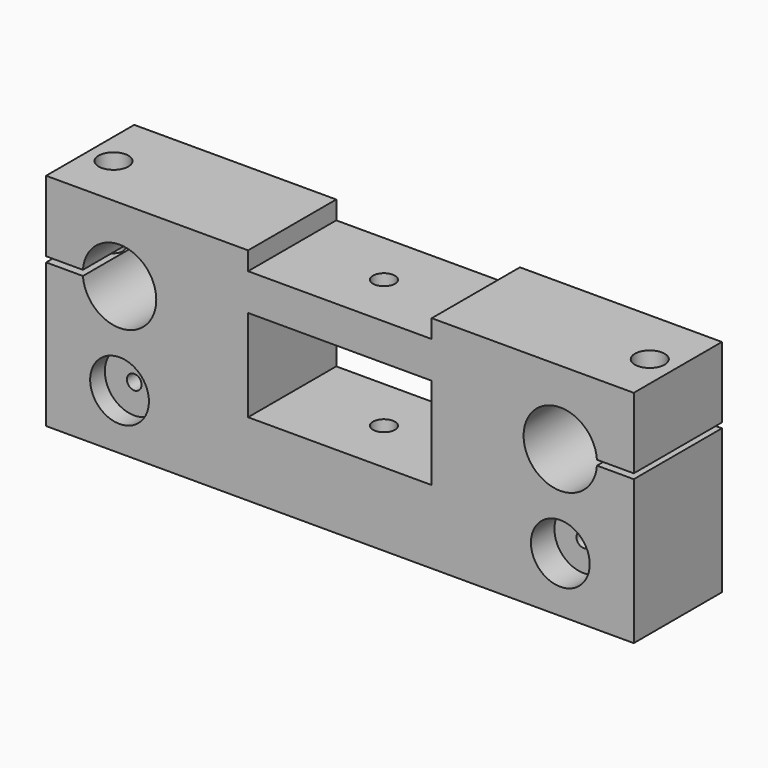
from build123d import *

# Parameters (mm, degrees)
F0_R      = 8
F0_W      = 50
F0_H      = 25
F1_DEPTH  = 30
F0_R_2    = 2
F2_R      = 2.55
F3_DEPTH  = 60
F5_DEPTH  = 30
F6_R      = 4.8374407279
F6_R_2    = 4.05
F7_DEPTH  = 8
F4_R      = 3.025
F8_DEPTH  = 55
F9_DEPTH  = 22
F10_DEPTH = 4
F11_DEPTH = 3
F12_DEPTH = 3
F13_DEPTH = 3
F14_DEPTH = 25
F15_DEPTH = 5
F16_DEPTH = 14.25
F17_DEPTH = 6.25
F19_R     = 3
F20_DEPTH = 50
F22_R     = 4.05
F23_DEPTH = 8


with BuildPart() as f1:
    # F0 (on Front) → F1 (new body)
    with BuildSketch(Plane.XZ):
        with BuildLine():
            Line((-20, 39.2304982366), (-20, 0))
            Line((-20, 0), (140, 0))
            Line((140, 0), (140, 39.3))
            Line((140, 39.3), (129.9754699137, 39.3))
            ThreePointArc((129.9754699137, 39.3), (110, 40), (129.9754699137, 40.7))
            Line((129.9754699137, 40.7), (140, 40.7))
            Line((140, 40.7), (140, 60))
            Line((140, 60), (85, 60))
            Line((85, 60), (85, 55))
            Line((85, 55), (35, 55))
            Line((35, 55), (35, 60))
            Line((35, 60), (-20, 60))
            Line((-20, 60), (-20, 40.7))
            Line((-20, 40.7), (-9.9754699137, 40.7))
            ThreePointArc((-9.9754699137, 40.7), (9.9999392909, 40.0348450672), (-9.9703493939, 39.2304982366))
            Line((-9.9703493939, 39.2304982366), (-20, 39.2304982366))
        make_face()
        with Locations((0, 15)):
            Circle(F0_R, mode=Mode.SUBTRACT)
        with Locations((120, 15)):
            Circle(F0_R, mode=Mode.SUBTRACT)
        with Locations((60, 32.5)):
            Rectangle(F0_W, F0_H, mode=Mode.SUBTRACT)
    extrude(amount=F1_DEPTH)

    # F2 (on Top) → F3 (cut)
    with BuildSketch(Plane.XY):
        with Locations((-13, -15.8086940646)):
            Circle(F2_R)
        with Locations((133, -15.8086940646)):
            Circle(F2_R)
    extrude(amount=F3_DEPTH, mode=Mode.SUBTRACT)

    # F2 (on Top) → F5 (cut)
    with BuildSketch(Plane.XY):
        Polygon((-16.8588337506, -13.5924129261), (-16.8487726432, -18.0424015523), (-12.9899388926, -20.2586826909), (-9.1411662494, -18.0249752032), (-9.1512273568, -13.5749865769), (-13.0100611074, -11.3587054383), align=None)
        with Locations((-13, -15.8086940646)):
            Circle(F2_R, mode=Mode.SUBTRACT)
        Polygon((129.1722717067, -13.5385139461), (129.1201021996, -17.9885139461), (132.9478304928, -20.2586940646), (136.8277282933, -18.0788741831), (136.8798978004, -13.6288741831), (133.0521695072, -11.3586940646), align=None)
        with Locations((133, -15.8086940646)):
            Circle(F2_R, mode=Mode.SUBTRACT)
    extrude(amount=F5_DEPTH, mode=Mode.SUBTRACT)

    # F6 (on Top) → F7 (cut)
    with BuildSketch(Plane.XY):
        with Locations((-13, -15.8086940646)):
            Circle(F6_R)
        with Locations((133, -15.8086940646)):
            Circle(F6_R_2)
    extrude(amount=-F7_DEPTH, mode=Mode.SUBTRACT)

    # F4 (on Top) → F8 (cut)
    with BuildSketch(Plane.XY):
        with Locations((60, -15)):
            Circle(F4_R)
    extrude(amount=-F8_DEPTH, mode=Mode.SUBTRACT)



with BuildPart() as f1b:
    # F0 (on Front) → F1, piece 2 (new body)
    with BuildSketch(Plane.XZ):
        Polygon((-0.0428018717, 19.0412252267), (-3.5212046446, 16.9835451052), (-3.4784027729, 12.9423198784), (0.0428018717, 10.9587747733), (3.5212046446, 13.0164548948), (3.4784027729, 17.0576801216), align=None)
        with Locations((0, 15)):
            Circle(F0_R_2, mode=Mode.SUBTRACT)
    extrude(amount=F1_DEPTH)


with BuildPart() as f1c:
    # F0 (on Front) → F1, piece 3 (new body)
    with BuildSketch(Plane.XZ):
        Polygon((116.4556220174, 17.0463475824), (116.4556220174, 12.9536524176), (120, 10.9073048353), (123.5443779826, 12.9536524176), (123.5443779826, 17.0463475824), (120, 19.0926951647), align=None)
        with Locations((120, 15)):
            Circle(F0_R_2, mode=Mode.SUBTRACT)
    extrude(amount=F1_DEPTH)


with BuildPart() as f1_1:
    add(f1.part)

    add(f1b.part)  # F9 merges F1b

    add(f1c.part)  # F9 merges F1c
    # F0 (on Front) → F9 (join)
    with BuildSketch(Plane.XZ):
        with Locations((0, 15)):
            Circle(F0_R)
        Polygon((-3.4784027729, 12.9423198784), (-3.5212046446, 16.9835451052), (-0.0428018717, 19.0412252267), (3.4784027729, 17.0576801216), (3.5212046446, 13.0164548948), (0.0428018717, 10.9587747733), align=None, mode=Mode.SUBTRACT)
        with Locations((120, 15)):
            Circle(F0_R)
        Polygon((120, 10.9073048353), (116.4556220174, 12.9536524176), (116.4556220174, 17.0463475824), (120, 19.0926951647), (123.5443779826, 17.0463475824), (123.5443779826, 12.9536524176), align=None, mode=Mode.SUBTRACT)
    extrude(amount=F9_DEPTH)

    # F0 (on Front) → F10 (cut)
    with BuildSketch(Plane.XZ):
        Polygon((116.4556220174, 17.0463475824), (116.4556220174, 12.9536524176), (120, 10.9073048353), (123.5443779826, 12.9536524176), (123.5443779826, 17.0463475824), (120, 19.0926951647), align=None)
        with Locations((120, 15)):
            Circle(F0_R_2, mode=Mode.SUBTRACT)
    extrude(amount=-F10_DEPTH, mode=Mode.SUBTRACT)

    # F0 (on Front) → F11 (cut)
    with BuildSketch(Plane.XZ):
        Polygon((116.4556220174, 17.0463475824), (116.4556220174, 12.9536524176), (120, 10.9073048353), (123.5443779826, 12.9536524176), (123.5443779826, 17.0463475824), (120, 19.0926951647), align=None)
        with Locations((120, 15)):
            Circle(F0_R_2, mode=Mode.SUBTRACT)
    extrude(amount=-F11_DEPTH, mode=Mode.SUBTRACT)

    # F0 (on Front) → F12 (cut)
    with BuildSketch(Plane.XZ):
        Polygon((116.4556220174, 17.0463475824), (116.4556220174, 12.9536524176), (120, 10.9073048353), (123.5443779826, 12.9536524176), (123.5443779826, 17.0463475824), (120, 19.0926951647), align=None)
        with Locations((120, 15)):
            Circle(F0_R_2, mode=Mode.SUBTRACT)
    extrude(amount=F12_DEPTH, mode=Mode.SUBTRACT)

    # F0 (on Front) → F13 (cut)
    with BuildSketch(Plane.XZ):
        Polygon((-0.0428018717, 19.0412252267), (-3.5212046446, 16.9835451052), (-3.4784027729, 12.9423198784), (0.0428018717, 10.9587747733), (3.5212046446, 13.0164548948), (3.4784027729, 17.0576801216), align=None)
        with Locations((0, 15)):
            Circle(F0_R_2, mode=Mode.SUBTRACT)
    extrude(amount=F13_DEPTH, mode=Mode.SUBTRACT)

    # F0 (on Front) → F14 (join)
    with BuildSketch(Plane.XZ):
        with Locations((0, 15)):
            Circle(F0_R)
        Polygon((-3.4784027729, 12.9423198784), (-3.5212046446, 16.9835451052), (-0.0428018717, 19.0412252267), (3.4784027729, 17.0576801216), (3.5212046446, 13.0164548948), (0.0428018717, 10.9587747733), align=None, mode=Mode.SUBTRACT)
    extrude(amount=F14_DEPTH)

    # F15 (cut): a face of the model
    f15_faces = [f1_1.faces().sort_by_distance(p)[0] for p in [
        (1.6651859594, -30, 17.9560510216),
    ]]
    extrude(f15_faces, amount=-F15_DEPTH, mode=Mode.SUBTRACT)

    # F16 (cut): a face of the model
    f16_faces = [f1_1.faces().sort_by_distance(p)[0] for p in [
        (116.5639045534, -30, 15),
    ]]
    extrude(f16_faces, amount=-F16_DEPTH, mode=Mode.SUBTRACT)

    # F17 (add, through all): a face of the model
    f17_faces = [f1_1.faces().sort_by_distance(p)[0] for p in [
        (116.5639045534, -15.75, 15),
    ]]
    extrude(f17_faces, amount=F17_DEPTH)

    # F19 (on offset) → F20 (cut)
    with BuildSketch(Plane.XY.offset(55)):
        with Locations((59.9975660443, -15.0059489533)):
            Circle(F19_R)
    extrude(amount=-F20_DEPTH, mode=Mode.SUBTRACT)

    # F22 (on offset) → F23 (cut)
    with BuildSketch(Plane.XY.offset(60)):
        with Locations((-13.0209773779, -15.7698076218)):
            Circle(F22_R)
        with Locations((132.9820901155, -15.7860927284)):
            Circle(F22_R)
    extrude(amount=-F23_DEPTH, mode=Mode.SUBTRACT)


solid = f1_1.part
